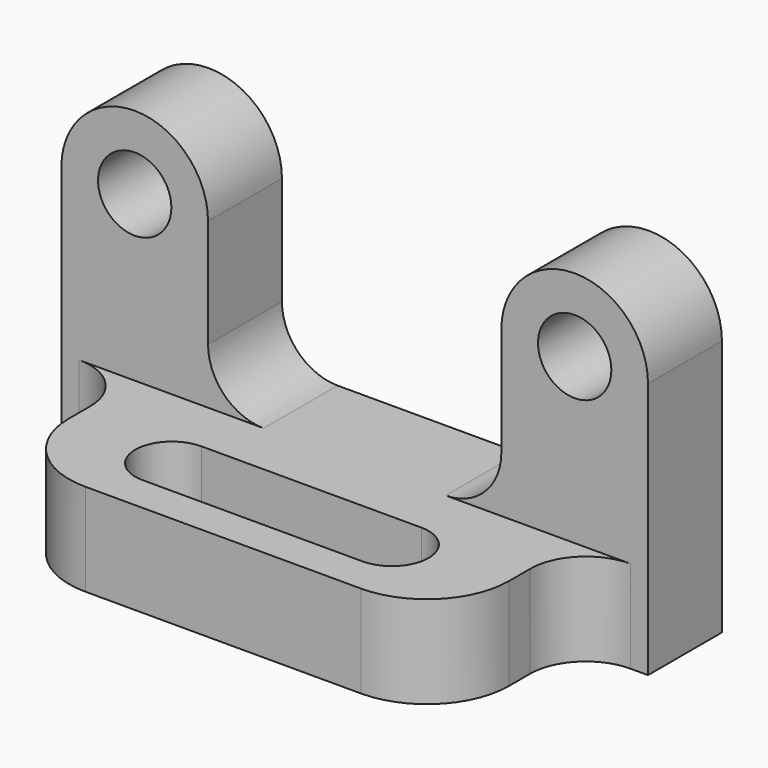
from build123d import *

# Parameters (mm, degrees)
F0_R     = 6.35
F1_DEPTH = 16.002
F2_R     = 9.652
F3_W     = 76.2
F3_H     = 28.448
F4_DEPTH = 16.002
F5_R     = 9.652
F6_R     = 14.224
F8_DEPTH = 16.003


with BuildPart() as f1:
    # F0 (on Front) → F1 (new body)
    with BuildSketch(Plane.XZ):
        with BuildLine():
            ThreePointArc((25.4, 44.45), (12.7, 57.15), (0, 44.45))
            Line((0, 44.45), (0, 0))
            Line((0, 0), (101.6, 0))
            Line((101.6, 0), (101.6, 44.45))
            ThreePointArc((101.6, 44.45), (88.9, 57.15), (76.2, 44.45))
            Line((76.2, 44.45), (76.2, 16.002))
            Line((76.2, 16.002), (25.4, 16.002))
            Line((25.4, 16.002), (25.4, 44.45))
        make_face()
        with Locations((12.7, 44.45)):
            Circle(F0_R, mode=Mode.SUBTRACT)
        with Locations((88.9, 44.45)):
            Circle(F0_R, mode=Mode.SUBTRACT)
    extrude(amount=F1_DEPTH)

    # F2
    f2_edges = [f1.edges().sort_by_distance(p)[0] for p in [
        (25.4, -8.001, 16.002),
        (76.2, -8.001, 16.002),
    ]]
    fillet(f2_edges, radius=F2_R)

    # F3 (on Top) → F4 (join)
    with BuildSketch(Plane.XY):
        with Locations((50.8, -30.226)):
            Rectangle(F3_W, F3_H)
    extrude(amount=F4_DEPTH)

    # F5
    f5_edges = [f1.edges().sort_by_distance(p)[0] for p in [
        (12.7, -16.002, 8.001),
        (88.9, -16.002, 8.001),
    ]]
    fillet(f5_edges, radius=F5_R)

    # F6
    f6_edges = [f1.edges().sort_by_distance(p)[0] for p in [
        (12.7, -44.45, 8.001),
        (88.9, -44.45, 8.001),
    ]]
    fillet(f6_edges, radius=F6_R)

    # F7 (on face) → F8 (cut, through all)
    with BuildSketch(Plane.XY.offset(16.002)):
        with BuildLine():
            Line((69.85, -25.4), (31.75, -25.4))
            ThreePointArc((31.75, -25.4), (25.4, -31.75), (31.75, -38.1))
            Line((31.75, -38.1), (69.85, -38.1))
            ThreePointArc((69.85, -38.1), (76.2, -31.75), (69.85, -25.4))
        make_face()
    extrude(amount=-F8_DEPTH, mode=Mode.SUBTRACT)


solid = f1.part
